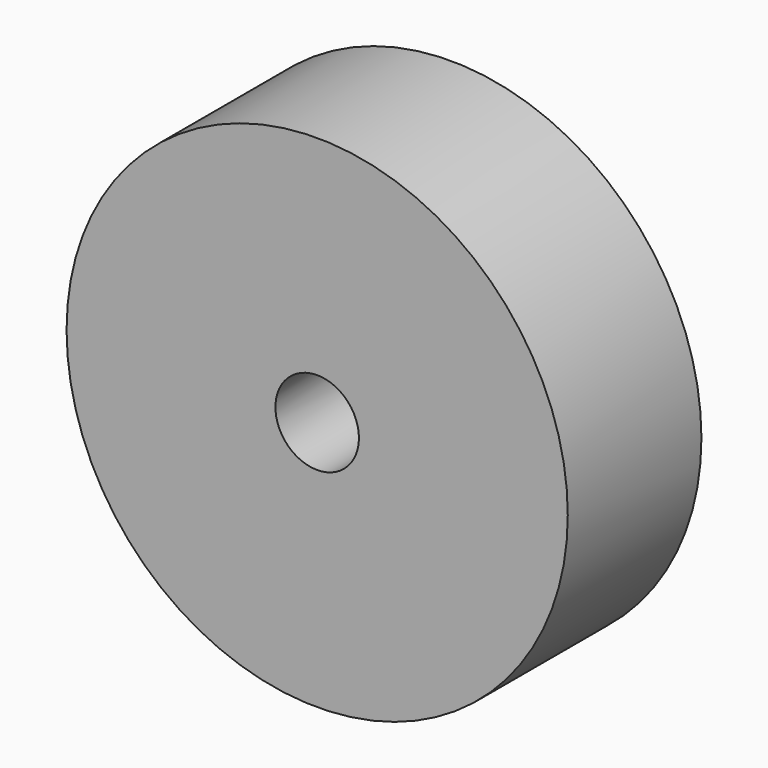
from build123d import *

# Parameters (mm, degrees)
F0_R     = 38.1
F1_DEPTH = 25.4
F2_R     = 6.35
F3_DEPTH = 12.7
F4_R     = 4.7625
F5_DEPTH = 12.7


with BuildPart() as f1:
    # F0 (on Front) → F1 (new body)
    with BuildSketch(Plane.XZ):
        Circle(F0_R)
    extrude(amount=F1_DEPTH)

    # F2 (on face) → F3 (cut)
    with BuildSketch(Plane.XZ.offset(25.4)):
        Circle(F2_R)
    extrude(amount=-F3_DEPTH, mode=Mode.SUBTRACT)

    # F4 (on face) → F5 (cut)
    with BuildSketch(Plane(origin=(0, 0, 0), x_dir=(-1, 0, 0), z_dir=(0, 1, 0))):
        with Locations((0, 28.575)):
            Circle(F4_R)
    extrude(amount=-F5_DEPTH, mode=Mode.SUBTRACT)


solid = f1.part
